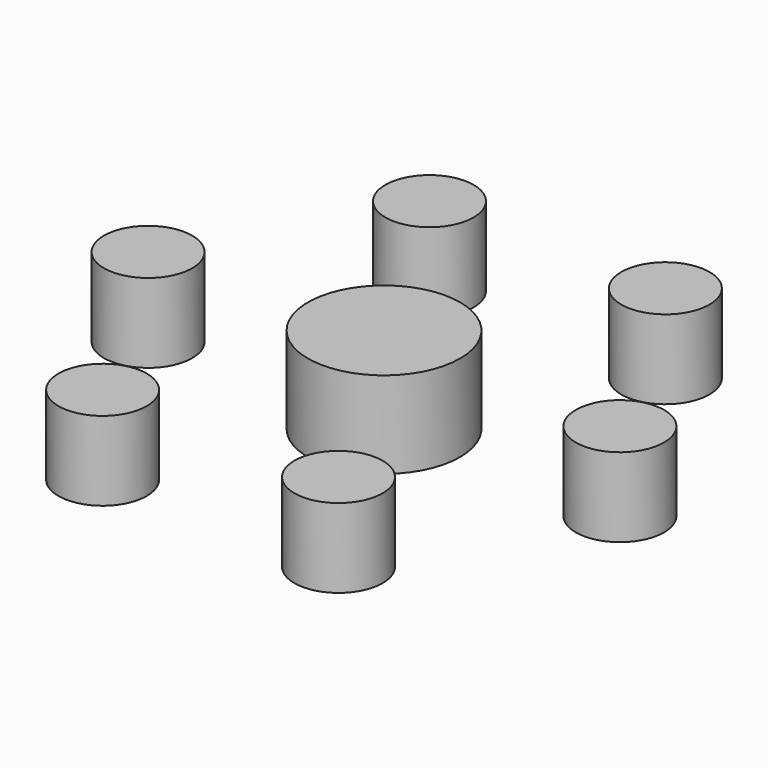
from build123d import *

# Parameters (mm, degrees)
CYLINDER057_R               = 2.9
CYLINDER057_DEPTH           = 5.2
CYLINDER057_PLACEMENT_ANGLE = 120
CYLINDER058_R               = 2.9
CYLINDER058_DEPTH           = 5.2
CYLINDER059_R               = 2.9
CYLINDER059_DEPTH           = 5.2
CYLINDER059_PLACEMENT_ANGLE = 120
CYLINDER060_R               = 2.9
CYLINDER060_DEPTH           = 5.2
CYLINDER060_PLACEMENT_ANGLE = -60
CYLINDER061_R               = 2.9
CYLINDER061_DEPTH           = 5.2
CYLINDER032_R               = 2.9
CYLINDER032_DEPTH           = 5.2
CYLINDER032_PLACEMENT_ANGLE = 60
CYLINDER133_R               = 5
CYLINDER133_DEPTH           = 5.7


with BuildPart() as cylinder057:
    # Cylinder057 → Cylinder057 (new body)
    with BuildSketch(Plane.XY):
        Circle(CYLINDER057_R)
    extrude(amount=CYLINDER057_DEPTH)


with BuildPart() as cylinder057_1:
    # Cylinder057 placement: moved
    add(cylinder057.part.moved(Location((-7.75, 13.423394, 6))).rotate(Axis((-7.75, 13.423394, 6), (0, 0, 1)), CYLINDER057_PLACEMENT_ANGLE))


with BuildPart() as cylinder058:
    # Cylinder058 → Cylinder058 (new body)
    with BuildSketch(Plane(origin=(-15.5, 0, 6), x_dir=(-1, 0, 0), z_dir=(0, 0, 1))):
        Circle(CYLINDER058_R)
    extrude(amount=CYLINDER058_DEPTH)


with BuildPart() as cylinder059:
    # Cylinder059 → Cylinder059 (new body)
    with BuildSketch(Plane.XY):
        Circle(CYLINDER059_R)
    extrude(amount=CYLINDER059_DEPTH)


with BuildPart() as cylinder059_1:
    # Cylinder059 placement: moved
    add(cylinder059.part.moved(Location((-7.75, -13.423394, 6))).rotate(Axis((-7.75, -13.423394, 6), (0, 0, -1)), CYLINDER059_PLACEMENT_ANGLE))


with BuildPart() as cylinder060:
    # Cylinder060 → Cylinder060 (new body)
    with BuildSketch(Plane.XY):
        Circle(CYLINDER060_R)
    extrude(amount=CYLINDER060_DEPTH)


with BuildPart() as cylinder060_1:
    # Cylinder060 placement: moved
    add(cylinder060.part.moved(Location((7.75, -13.423394, 6))).rotate(Axis((7.75, -13.423394, 6), (0, 0, 1)), CYLINDER060_PLACEMENT_ANGLE))


with BuildPart() as cylinder061:
    # Cylinder061 → Cylinder061 (new body)
    with BuildSketch(Plane(origin=(15.5, 0, 6), x_dir=(1, 0, 0), z_dir=(0, 0, 1))):
        Circle(CYLINDER061_R)
    extrude(amount=CYLINDER061_DEPTH)


with BuildPart() as fusion075:
    # Cylinder032 → Cylinder032 (new body)
    with BuildSketch(Plane.XY):
        Circle(CYLINDER032_R)
    extrude(amount=CYLINDER032_DEPTH)


with BuildPart() as fusion075_1:
    # Cylinder032 placement: moved
    add(fusion075.part.moved(Location((7.75, 13.423394, 6))).rotate(Axis((7.75, 13.423394, 6), (0, 0, 1)), CYLINDER032_PLACEMENT_ANGLE))

    # Fusion075: union Cylinder057, Cylinder058, Cylinder059, Cylinder060, Cylinder061
    add(cylinder057_1.part)
    add(cylinder058.part)
    add(cylinder059_1.part)
    add(cylinder060_1.part)
    add(cylinder061.part)


with BuildPart() as fusion075_2:
    # Fusion075 placement: moved
    add(fusion075_1.part.moved(Location((0, 0, -35.5))))


with BuildPart() as hub_rear_support:
    # Cylinder133 → Cylinder133 (new body)
    with BuildSketch(Plane.XY.offset(-29.5)):
        Circle(CYLINDER133_R)
    extrude(amount=CYLINDER133_DEPTH)

    # Fusion083: union Fusion075
    add(fusion075_2.part)


solid = hub_rear_support.part
